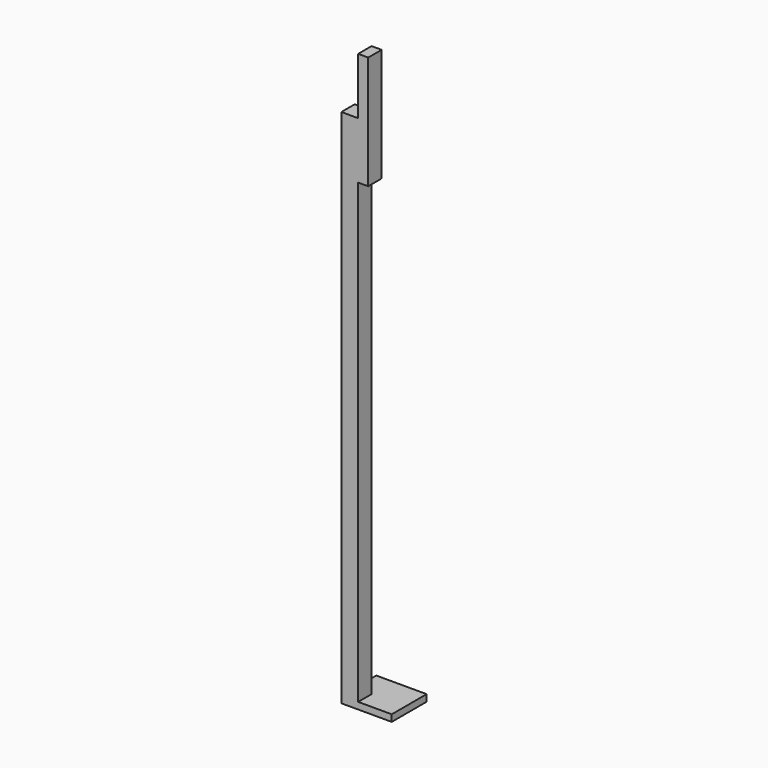
from build123d import *

# Parameters (mm, degrees)
SKETCH007_W  = 15
SKETCH007_H  = 13
PAD007_DEPTH = 2
SKETCH008_W  = 5
SKETCH008_H  = 5
PAD008_DEPTH = 153
SKETCH009_W  = 5
SKETCH009_H  = 33.74
PAD009_DEPTH = 3


with BuildPart() as part:
    # Sketch007 → Pad007 (new body)
    with BuildSketch(Plane.XY):
        with Locations((-0.106383, -1.694786)):
            Rectangle(SKETCH007_W, SKETCH007_H)
    extrude(amount=PAD007_DEPTH)

    # Sketch008 (on Face6 of Pad007) → Pad008 (join)
    with BuildSketch(Plane.XY.offset(2)):
        with Locations((-5.106383, -5.694786)):
            Rectangle(SKETCH008_W, SKETCH008_H)
    extrude(amount=PAD008_DEPTH)

    # Sketch009 (on Face5 of Pad008) → Pad009 (join)
    with BuildSketch(Plane.YZ.offset(-2.606383)):
        with Locations((-5.694786, 155)):
            Rectangle(SKETCH009_W, SKETCH009_H)
    extrude(amount=PAD009_DEPTH)


solid = part.part
